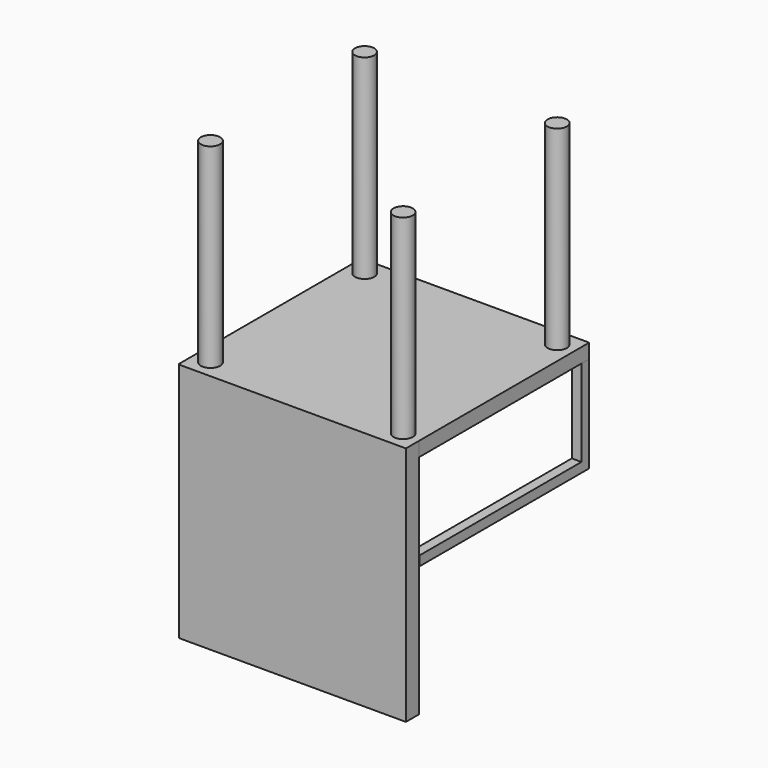
from build123d import *

# Parameters (mm, degrees)
F0_R      = 2
F1_DEPTH  = 40.5
F2_W      = 47.270983
F2_H      = 47.419636
F3_DEPTH  = 3
F4_W      = 47.122335
F4_H      = 3.418969
F5_DEPTH  = 50
F6_W      = 2
F6_H      = 44
F7_DEPTH  = 20
F8_W      = 2
F8_H      = 44
F9_DEPTH  = 20
F10_W     = 42
F10_H     = 18
F11_DEPTH = 25
F12_W     = 42
F12_H     = 18
F13_DEPTH = 25


with BuildPart() as f1:
    # F0 (on Top) → F1 (new body)
    with BuildSketch(Plane.XY):
        with Locations((-19.125001, -21.954547)):
            Circle(F0_R)
        with Locations((20.874999, 18.045453)):
            Circle(F0_R)
        with Locations((20.874999, -21.954547)):
            Circle(F0_R)
        with Locations((-19.125001, 18.045453)):
            Circle(F0_R)
    extrude(amount=F1_DEPTH)

    # F2 (on Top) → F3 (join)
    with BuildSketch(Plane.XY):
        with Locations((0.872621, -1.915443)):
            Rectangle(F2_W, F2_H)
    extrude(amount=-F3_DEPTH)

    # F4 (on Top) → F5 (join)
    with BuildSketch(Plane.XY):
        with Locations((0.946948, -24.064426)):
            Rectangle(F4_W, F4_H)
    extrude(amount=-F5_DEPTH)

    # F6 (on face) → F7 (join)
    with BuildSketch(Plane(origin=(0, 0, -3), x_dir=(1, 0, 0), z_dir=(0, 0, -1))):
        with Locations((23.508113, 0.205625)):
            Rectangle(F6_W, F6_H)
    extrude(amount=F7_DEPTH)

    # F8 (on face) → F9 (join)
    with BuildSketch(Plane(origin=(0, 0, -3), x_dir=(1, 0, 0), z_dir=(0, 0, -1))):
        with Locations((-21.76287, 0.205625)):
            Rectangle(F8_W, F8_H)
    extrude(amount=F9_DEPTH)

    # F10 (on face) → F11 (cut)
    with BuildSketch(Plane.YZ.offset(24.508113)):
        with Locations((-1.205625, -12)):
            Rectangle(F10_W, F10_H)
    extrude(amount=-F11_DEPTH, mode=Mode.SUBTRACT)

    # F12 (on face) → F13 (cut)
    with BuildSketch(Plane(origin=(-22.76287, 0, 0), x_dir=(0, -1, 0), z_dir=(-1, 0, 0))):
        with Locations((1.205625, -12)):
            Rectangle(F12_W, F12_H)
    extrude(amount=-F13_DEPTH, mode=Mode.SUBTRACT)


solid = f1.part
